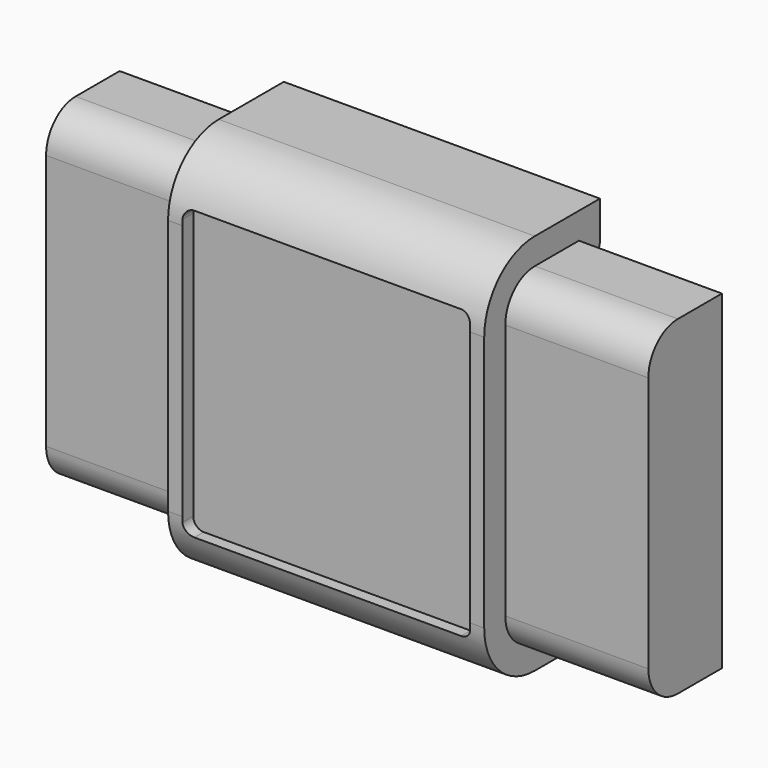
from build123d import *

# Parameters (mm, degrees)
F0_W     = 114.3
F0_H     = 62.6
F1_DEPTH = 17.45
F2_R     = 7
F4_DEPTH = 30
F5_R     = 3
F6_W     = 54.6
F6_H     = 3
F6_H_2   = 48.6
F7_DEPTH = 2.6
F8_R     = 2


with BuildPart() as f1:
    # F0 (on Front) → F1 (new body)
    with BuildSketch(Plane.XZ):
        Rectangle(F0_W, F0_H)
    extrude(amount=F1_DEPTH)

    # F2
    f2_edges = [f1.edges().sort_by_distance(p)[0] for p in [
        (0, -17.45, 31.3),
        (0, -17.45, -31.3),
    ]]
    fillet(f2_edges, radius=F2_R)


with BuildPart() as f4:
    # F3 (on Right) → F4 (new body, symmetric)
    with BuildSketch(Plane.YZ):
        with BuildLine():
            Line((5, 36.3), (-10.45, 36.3))
            ThreePointArc((-10.45, 36.3), (-18.9352813742, 32.7852813742), (-22.45, 24.3))
            Line((-22.45, 24.3), (-22.45, -24.3))
            ThreePointArc((-22.45, -24.3), (-18.9352813742, -32.7852813742), (-10.45, -36.3))
            Line((-10.45, -36.3), (5, -36.3))
            Line((5, -36.3), (5, -26.3))
            Line((5, -26.3), (0, -26.3))
            Line((0, -26.3), (0, -31.3))
            Line((0, -31.3), (-10.45, -31.3))
            ThreePointArc((-10.45, -31.3), (-15.3997474683, -29.2497474683), (-17.45, -24.3))
            Line((-17.45, -24.3), (-17.45, 24.3))
            ThreePointArc((-17.45, 24.3), (-15.3997474683, 29.2497474683), (-10.45, 31.3))
            Line((-10.45, 31.3), (0, 31.3))
            Line((0, 31.3), (0, 26.3))
            Line((0, 26.3), (5, 26.3))
            Line((5, 26.3), (5, 36.3))
        make_face()
    extrude(amount=F4_DEPTH, both=True)

    # F5
    f5_edges = [f4.edges().sort_by_distance(p)[0] for p in [
        (0, 5, 26.3),
        (0, 5, -26.3),
    ]]
    fillet(f5_edges, radius=F5_R)

    # F6 (on face) → F7 (cut)
    with BuildSketch(Plane.XZ.offset(22.45)):
        with Locations((0, 25.8)):
            Rectangle(F6_W, F6_H)
        with Locations((0, -25.8)):
            Rectangle(F6_W, F6_H)
        Rectangle(F6_W, F6_H_2)
    extrude(amount=-F7_DEPTH, mode=Mode.SUBTRACT)

    # F8
    f8_edges = [f4.edges().sort_by_distance(p)[0] for p in [
        (-27.3, -20.959475, 27.3),
        (27.3, -20.959475, 27.3),
        (27.3, -20.959475, -27.3),
        (-27.3, -20.959475, -27.3),
    ]]
    fillet(f8_edges, radius=F8_R)


solid = Compound([f1.part, f4.part])
